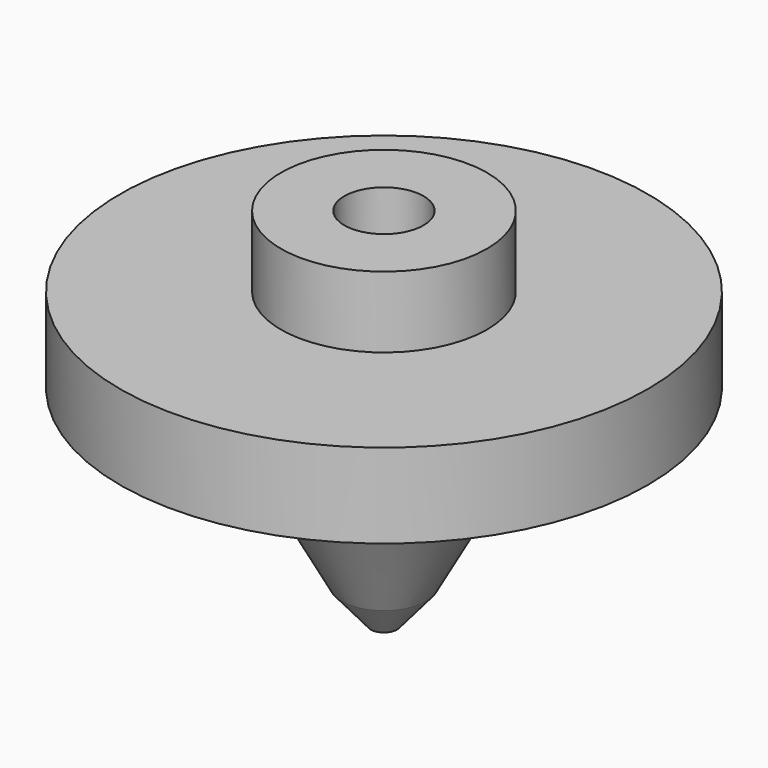
from build123d import *

# Parameters (mm, degrees)
F2_R     = 4.7625
F3_DEPTH = 9.525
F4_R     = 1.5875
F5_DEPTH = 22.225


with BuildPart() as f1:
    # F0 (on Front) → F1 (revolve)
    with BuildSketch(Plane.XZ):
        Polygon((0, 45.72), (0, 0), (5.08, 6.010141), (12.395916, 19.379321), (31.75, 26.999321), (31.75, 37.159321), (12.395916, 37.159321), (12.395916, 45.72), align=None)
    revolve(axis=Axis((0, 0, 22.86), (0, 0, -1)))

    # F2 (on face) → F3 (cut)
    with BuildSketch(Plane.XY.offset(45.72)):
        Circle(F2_R)
    extrude(amount=-F3_DEPTH, mode=Mode.SUBTRACT)

    # F4 (on Top) → F5 (cut)
    with BuildSketch(Plane.XY):
        Circle(F4_R)
    extrude(amount=F5_DEPTH, mode=Mode.SUBTRACT)


solid = f1.part
